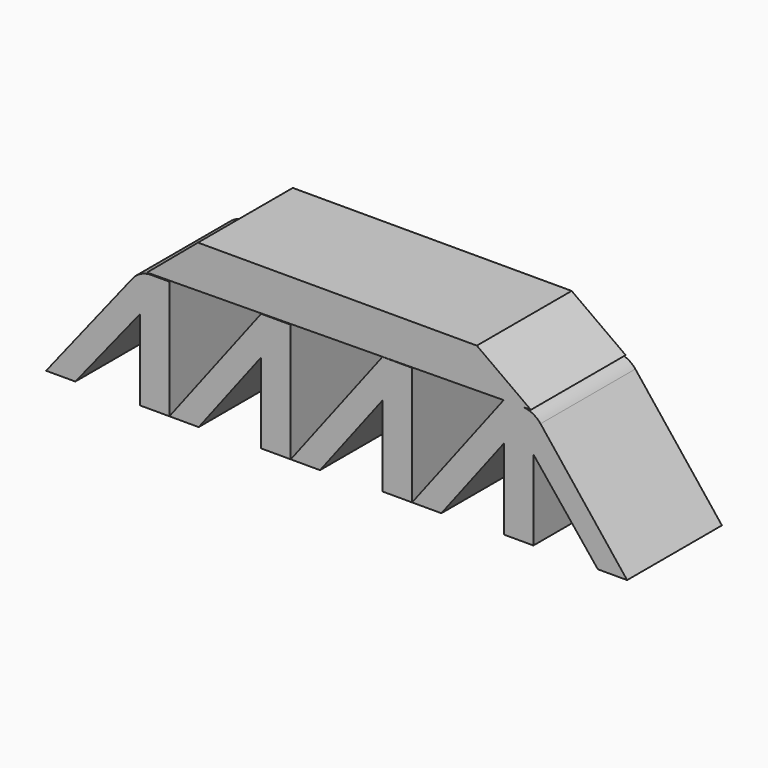
from build123d import *

# Parameters (mm, degrees)
F1_DEPTH = 25.4
F2_R     = 5.08
F3_R     = 5.08
F5_DEPTH = 25.4


with BuildPart() as f1:
    # F0 (on Front) → F1 (new body)
    with BuildSketch(Plane.XZ):
        Polygon((9.495087, -29.702337), (-10.164513, -55.433441), (-3.889701, -55.433441), (9.495087, -37.915008), align=None)
        Polygon((-68.533713, -56.095649), (-62.183713, -56.095649), (-62.183713, -30.695649), (-68.533713, -30.695649), (-68.533713, -38.911022), align=None)
        Polygon((35.930644, -55.102337), (15.845087, -29.702337), (15.845087, -37.917711), (29.655832, -55.102337), align=None)
        Polygon((-16.514513, -30.033441), (-36.174113, -55.764545), (-29.899301, -55.764545), (-16.514513, -38.246112), (-16.514513, -35.31459), align=None)
        Polygon((-42.524113, -30.364545), (-62.183713, -56.095649), (-55.908901, -56.095649), (-42.524113, -38.577216), align=None)
        Polygon((-10.164513, -30.033441), (-16.514513, -30.033441), (-16.514513, -35.31459), (-16.514513, -38.246112), (-16.514513, -55.433441), (-10.164513, -55.433441), align=None)
        Polygon((-82.344457, -56.095649), (-68.533713, -38.911022), (-68.533713, -30.695649), (-88.619269, -56.095649), align=None)
        Polygon((-36.174113, -30.364545), (-42.524113, -30.364545), (-42.524113, -38.577216), (-42.524113, -55.764545), (-36.174113, -55.764545), align=None)
        Polygon((15.845087, -29.702337), (9.495087, -29.702337), (9.495087, -37.915008), (9.495087, -55.102337), (15.845087, -55.102337), (15.845087, -37.917711), align=None)
    extrude(amount=F1_DEPTH)

    # F2
    f2_edges = [f1.edges().sort_by_distance(p)[0] for p in [
        (-68.533713, -12.7, -30.695649),
    ]]
    fillet(f2_edges, radius=F2_R)

    # F3
    f3_edges = [f1.edges().sort_by_distance(p)[0] for p in [
        (15.845087, -12.7, -29.702337),
    ]]
    fillet(f3_edges, radius=F3_R)

    # F4 (on Front) → F5 (join)
    with BuildSketch(Plane.XZ):
        Polygon((-56.058383, -21.327179), (-66.978723, -30.523254), (15.296485, -29.681453), (3.719452, -21.327179), align=None)
    extrude(amount=F5_DEPTH)


solid = f1.part
